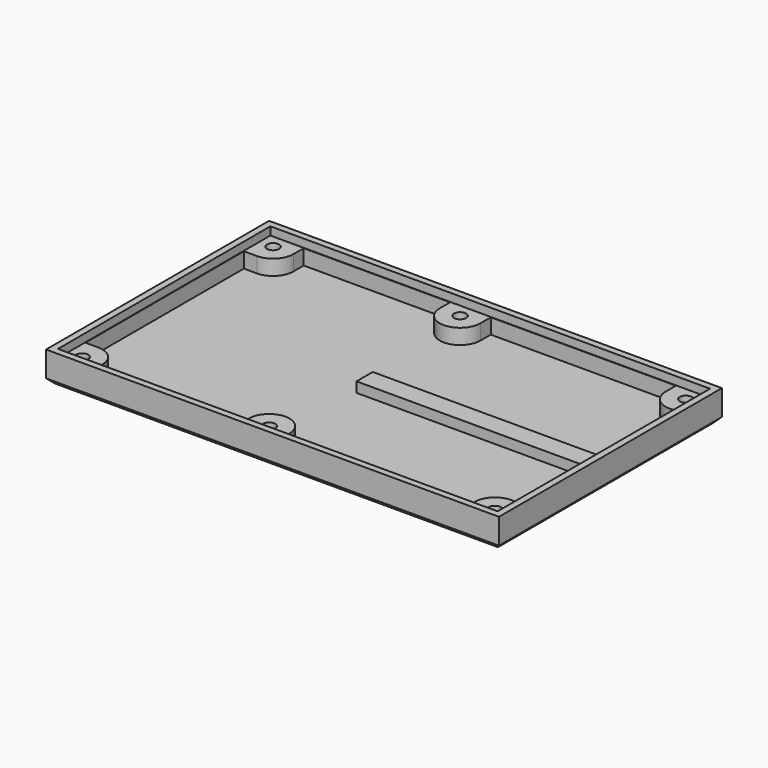
from build123d import *

# Parameters (mm, degrees)
SKETCH_W        = 89.16
SKETCH_H        = 54.87
PAD_DEPTH       = 6
POCKET_DEPTH    = 4.6
SKETCH002_W     = 86.56
SKETCH002_H     = 52.27
POCKET001_DEPTH = 1.6
SKETCH004_R     = 1.2
POCKET002_DEPTH = 2.2
SKETCH003_R     = 2.1
POCKET003_DEPTH = 2
SKETCH005_W     = 44.45
SKETCH005_H     = 4
PAD001_DEPTH    = 2
CHAMFER_SIZE    = 1


with BuildPart() as part:
    # Sketch → Pad (new body)
    with BuildSketch(Plane.XY):
        with Locations((44.58, 27.435)):
            Rectangle(SKETCH_W, SKETCH_H)
    extrude(amount=PAD_DEPTH)

    # Sketch001 → Pocket (cut)
    with BuildSketch(Plane.XY.offset(6)):
        with BuildLine():
            ThreePointArc((3.94, 46.93), (6.768427, 48.101573), (7.94, 50.93))
            Line((7.94, 50.93), (7.94, 53.47))
            Line((7.94, 53.47), (36.77, 53.47))
            Line((36.77, 53.47), (36.77, 50.93))
            ThreePointArc((36.77, 50.93), (40.77, 46.93), (44.77, 50.93))
            Line((44.77, 50.93), (44.77, 53.47))
            Line((44.77, 53.47), (81.22, 53.47))
            Line((81.22, 53.47), (81.22, 50.93))
            ThreePointArc((81.22, 50.93), (82.391573, 48.101573), (85.22, 46.93))
            Line((85.22, 46.93), (87.76, 46.93))
            Line((87.76, 46.93), (87.76, 7.94))
            Line((87.76, 7.94), (85.22, 7.94))
            ThreePointArc((85.22, 7.94), (82.391573, 6.768427), (81.22, 3.94))
            Line((81.22, 1.4), (81.22, 3.94))
            Line((44.77, 1.4), (81.22, 1.4))
            Line((44.77, 3.94), (44.77, 1.4))
            ThreePointArc((44.77, 3.94), (40.77, 7.94), (36.77, 3.94))
            Line((36.77, 1.4), (36.77, 3.94))
            Line((7.94, 1.4), (36.77, 1.4))
            Line((7.94, 3.94), (7.94, 1.4))
            ThreePointArc((7.94, 3.94), (6.768427, 6.768427), (3.94, 7.94))
            Line((1.4, 7.94), (3.94, 7.94))
            Line((1.4, 46.93), (1.4, 7.94))
            Line((3.94, 46.93), (1.4, 46.93))
        make_face()
    extrude(amount=-POCKET_DEPTH, mode=Mode.SUBTRACT)

    # Sketch002 → Pocket001 (cut)
    with BuildSketch(Plane.XY.offset(6)):
        with Locations((44.58, 27.435)):
            Rectangle(SKETCH002_W, SKETCH002_H)
    extrude(amount=-POCKET001_DEPTH, mode=Mode.SUBTRACT)

    # Sketch004 → Pocket002 (cut)
    with BuildSketch(Plane.XY.offset(4.4)):
        with Locations((3.94, 50.93)):
            Circle(SKETCH004_R)
        with Locations((40.77, 50.93)):
            Circle(SKETCH004_R)
        with Locations((85.22, 50.93)):
            Circle(SKETCH004_R)
        with Locations((85.22, 3.94)):
            Circle(SKETCH004_R)
        with Locations((40.77, 3.94)):
            Circle(SKETCH004_R)
        with Locations((3.94, 3.94)):
            Circle(SKETCH004_R)
    extrude(amount=-POCKET002_DEPTH, mode=Mode.SUBTRACT)

    # Sketch003 → Pocket003 (cut)
    with BuildSketch(Plane(origin=(0, 0, 0), x_dir=(1, 0, 0), z_dir=(0, 0, -1))):
        with Locations((3.94, -3.94)):
            Circle(SKETCH003_R)
        with Locations((40.77, -3.94)):
            Circle(SKETCH003_R)
        with Locations((85.22, -3.94)):
            Circle(SKETCH003_R)
        with Locations((85.22, -50.93)):
            Circle(SKETCH003_R)
        with Locations((40.77, -50.93)):
            Circle(SKETCH003_R)
        with Locations((3.94, -50.93)):
            Circle(SKETCH003_R)
    extrude(amount=-POCKET003_DEPTH, mode=Mode.SUBTRACT)

    # Sketch005 → Pad001 (new body)
    with BuildSketch(Plane.XY.offset(1.4)):
        with Locations((62.995, 27.435)):
            Rectangle(SKETCH005_W, SKETCH005_H)
    extrude(amount=PAD001_DEPTH)

    # Chamfer
    chamfer_edges = [part.edges().sort_by_distance(p)[0] for p in [
        (44.58, 54.87, 0),
        (89.16, 27.435, 0),
        (0, 27.435, 0),
        (44.58, 0, 0),
    ]]
    chamfer(chamfer_edges, length=CHAMFER_SIZE)


solid = part.part
